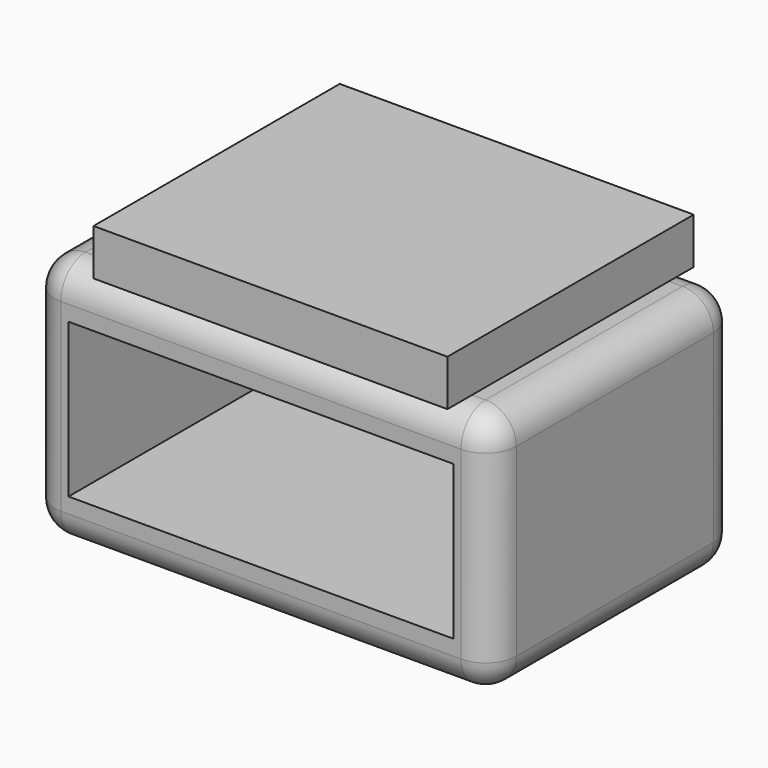
from build123d import *

# Parameters (mm, degrees)
F0_W     = 76.2
F0_H     = 40.64
F1_DEPTH = 50.8
F2_W     = 63.5
F2_H     = 25.4
F3_DEPTH = 50.546
F4_W     = 58.42
F4_H     = 7.62
F5_DEPTH = 50.8
F6_R     = 5.08


with BuildPart() as f1:
    # F0 (on Front) → F1 (new body)
    with BuildSketch(Plane.XZ):
        Rectangle(F0_W, F0_H)
    extrude(amount=F1_DEPTH)

    # F2 (on face) → F3 (cut)
    with BuildSketch(Plane.XZ.offset(50.8)):
        Rectangle(F2_W, F2_H)
    extrude(amount=-F3_DEPTH, mode=Mode.SUBTRACT)

    # F6
    f6_edges = [f1.edges().sort_by_distance(p)[0] for p in [
        (-38.1, -50.8, 0),
        (0, -50.8, 20.32),
        (38.1, -50.8, 0),
        (0, -50.8, -20.32),
        (38.1, -25.4, 20.32),
        (38.1, 0, 0),
        (38.1, -25.4, -20.32),
        (-38.1, -25.4, 20.32),
        (0, 0, 20.32),
        (-38.1, -25.4, -20.32),
        (-38.1, 0, 0),
        (0, 0, -20.32),
    ]]
    fillet(f6_edges, radius=F6_R)


with BuildPart() as f5:
    # F4 (on Front) → F5 (new body)
    with BuildSketch(Plane.XZ):
        with Locations((1.582173, 24.140948)):
            Rectangle(F4_W, F4_H)
    extrude(amount=F5_DEPTH)


solid = Compound([f1.part, f5.part])
